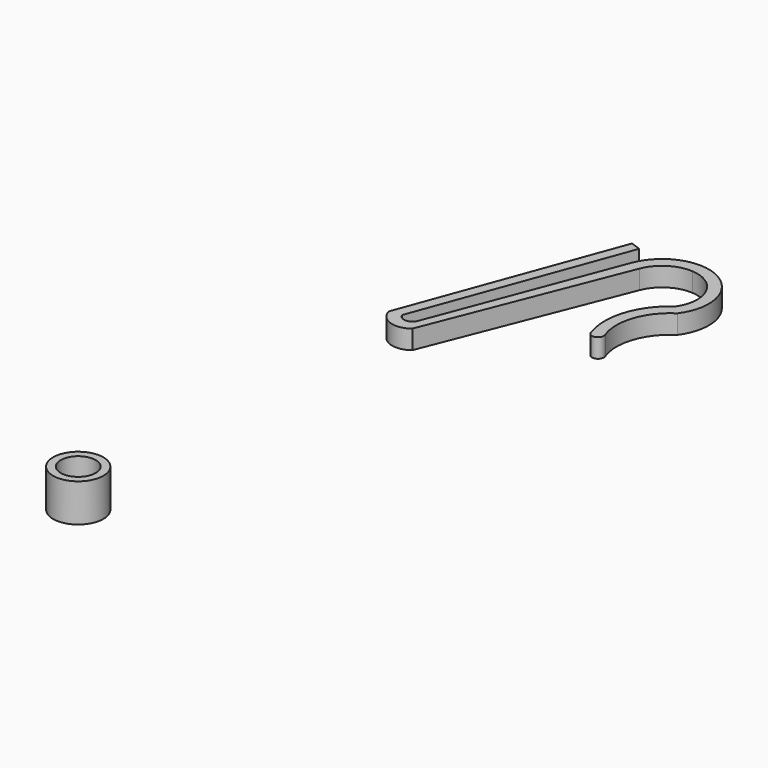
from build123d import *

# Parameters (mm, degrees)
F1_DEPTH = 2.5
F2_R     = 3.3
F2_R_2   = 2.3
F3_DEPTH = 5


with BuildPart() as f1:
    # F0 (on Top) → F1 (new body)
    with BuildSketch(Plane.XY):
        with BuildLine():
            Line((-30.406968, 21.184699), (-39.452191, -2.589572))
            ThreePointArc((-39.452191, -2.589572), (-40.499172, -3.311432), (-41.546153, -2.589572))
            Line((-41.546153, -2.589572), (-31.741726, 24.098489))
            Line((-31.741726, 24.098489), (-33.051661, 24.579721))
            Line((-33.051661, 24.579721), (-43.110168, -2.799958))
            ThreePointArc((-43.110168, -2.799958), (-41.386106, -4.721293), (-38.839758, -4.296986))
            Line((-38.839758, -4.296986), (-28.960331, 20.706533))
            ThreePointArc((-28.960331, 20.706533), (-27.134708, 22.913173), (-24.359677, 23.621242))
            Line((-24.359677, 23.621242), (-24.359677, 25.145418))
            ThreePointArc((-24.359677, 25.145418), (-28.027297, 24.14829), (-30.406968, 21.184699))
        make_face()
        with BuildLine():
            ThreePointArc((-19.72417, 15.347021), (-19.105297, 21.635503), (-24.359677, 25.145418))
            Line((-24.359677, 25.145418), (-24.359677, 23.621242))
            ThreePointArc((-24.359677, 23.621242), (-20.51759, 21.060543), (-20.806932, 16.452387))
            ThreePointArc((-20.806932, 16.452387), (-24.047, 12.105547), (-24.047842, 6.684011))
            ThreePointArc((-24.047842, 6.684011), (-23.011778, 5.976509), (-22.603361, 7.162757))
            ThreePointArc((-22.603361, 7.162757), (-22.561564, 11.746629), (-19.72417, 15.347021))
        make_face()
    extrude(amount=F1_DEPTH)


with BuildPart() as f3:
    # F2 (on Top) → F3 (new body)
    with BuildSketch(Plane.XY):
        with Locations((-43.465074, -53.404797)):
            Circle(F2_R)
        with Locations((-43.465074, -53.404797)):
            Circle(F2_R_2, mode=Mode.SUBTRACT)
    extrude(amount=F3_DEPTH)


solid = Compound([f1.part, f3.part])
